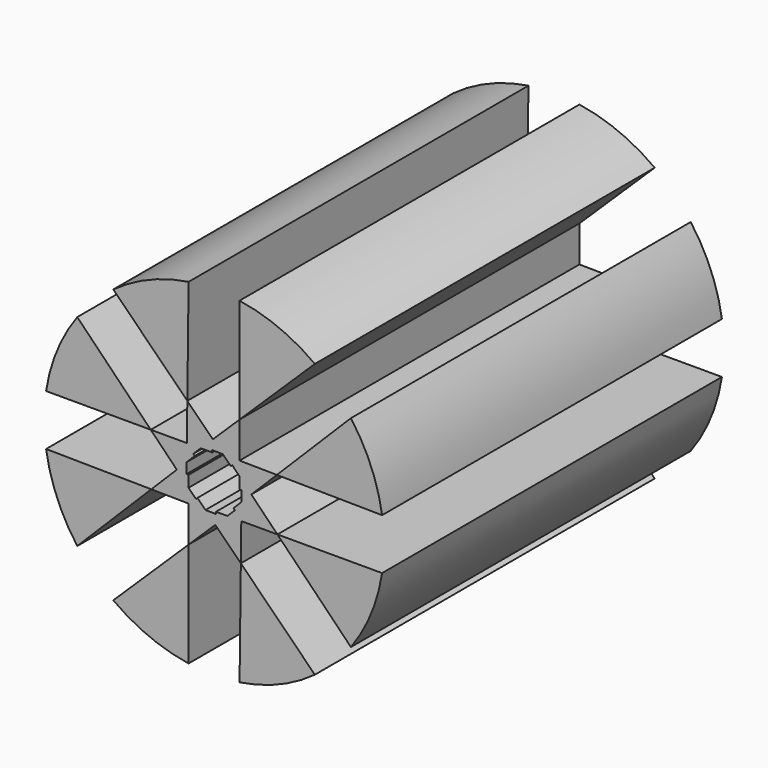
from build123d import *

# Parameters (mm, degrees)
F1_DEPTH = 25


with BuildPart() as f1:
    # F0 (on Front) → F1 (new body)
    with BuildSketch(Plane.XZ):
        Polygon((-1.2930655526, -11.2845433465), (-1.413538867, -11.2845433465), (-1.406060062, -10.6638031963), (-1.9858366428, -11.2435797771), (-1.2930655526, -11.9532477417), align=None)
        Polygon((-1.9858366428, -11.2435797771), (-1.406060062, -10.6638031963), (-1.3941121675, -9.6721290305), (-3.5198718555, -9.6721290305), align=None)
        Polygon((-1.3941121675, -9.6721290305), (-1.406060062, -10.6638031963), (-0.9332146495, -10.1909577839), (-1.0184021471, -10.1057702863), (-0.5741842638, -9.6721290305), align=None)
        Polygon((-1.2930655526, -12.7731756454), (-1.2930655526, -11.9532477417), (-1.9858366428, -11.2435797771), (-3.4889757333, -12.7467188677), align=None)
        Polygon((-0.8594242968, -12.3974656251), (-1.2930655526, -11.9532477417), (-1.2930655526, -12.7731756454), (-0.3013913868, -12.7851235399), (-0.7742367992, -12.3122781275), align=None)
        Polygon((-1.3676553897, -7.4762188498), (-1.3941121675, -9.6721290305), (-0.5741842638, -9.6721290305), (0.1354837008, -8.9793579403), align=None)
        Polygon((-0.3013913868, -12.7851235399), (-1.2930655526, -12.7731756454), (-1.2930655526, -14.8989353334), (0.2783851941, -13.3649001207), align=None)
        Polygon((0.1354837008, -8.9793579403), (-0.5741842638, -9.6721290305), (0.0945201314, -9.6721290305), (0.0945201314, -9.551655716), (0.7152602816, -9.5591345211), align=None)
        Polygon((0.3193487635, -12.792602345), (-0.3013913868, -12.7851235399), (0.2783851941, -13.3649001207), (0.9880531586, -12.6721290305), (0.3193487635, -12.6721290305), align=None)
        Polygon((1.7069344474, -7.4453227276), (0.1354837008, -8.9793579403), (0.7152602816, -9.5591345211), (1.7069344474, -9.5710824156), align=None)
        Polygon((0.9880531586, -12.6721290305), (0.2783851941, -13.3649001207), (1.7815242846, -14.8680392112), (1.8079810624, -12.6721290305), align=None)
        Polygon((1.7069344474, -9.5710824156), (0.7152602816, -9.5591345211), (1.188105694, -10.0319799335), (1.2732931916, -9.9467924359), (1.7069344474, -10.3910103193), align=None)
        Polygon((1.432271042, -12.2384877747), (0.9880531586, -12.6721290305), (1.8079810624, -12.6721290305), (1.8199289568, -11.6804548647), (1.3470835444, -12.1533002771), align=None)
        Polygon((3.9028446281, -9.5975391933), (1.7069344474, -9.5710824156), (1.7069344474, -10.3910103193), (2.3997055376, -11.1006782839), align=None)
        Polygon((1.8199289568, -11.6804548647), (1.8079810624, -12.6721290305), (3.9337407503, -12.6721290305), (2.3997055376, -11.1006782839), align=None)
        Polygon((2.3997055376, -11.1006782839), (1.7069344474, -10.3910103193), (1.7069344474, -11.0597147144), (1.8274077619, -11.0597147144), (1.8199289568, -11.6804548647), align=None)
    extrude(amount=F1_DEPTH)


with BuildPart() as f1b:
    # F0 (on Front) → F1, piece 2 (new body)
    with BuildSketch(Plane.XZ):
        with BuildLine():
            Line((-5.7234711079, -3.1204031317), (-1.3676553897, -7.4762188498))
            Line((-1.3676553897, -7.4762188498), (-1.2930655526, -1.2852690639))
            ThreePointArc((-1.2930655526, -1.2852690639), (-3.6198998762, -1.9333337054), (-5.7234711079, -3.1204031317))
        make_face()
    extrude(amount=F1_DEPTH)


with BuildPart() as f1c:
    # F0 (on Front) → F1, piece 3 (new body)
    with BuildSketch(Plane.XZ):
        with BuildLine():
            Line((1.7069344474, -1.2852690639), (1.7069344474, -7.4453227276))
            Line((1.7069344474, -7.4453227276), (6.1373400027, -3.1204031317))
            ThreePointArc((6.1373400027, -3.1204031317), (4.0337687711, -1.9333337054), (1.7069344474, -1.2852690639))
        make_face()
    extrude(amount=F1_DEPTH)


with BuildPart() as f1d:
    # F0 (on Front) → F1, piece 4 (new body)
    with BuildSketch(Plane.XZ):
        with BuildLine():
            Line((8.2586603463, -5.2417234752), (3.9028446281, -9.5975391933))
            Line((3.9028446281, -9.5975391933), (10.0937944141, -9.6721290305))
            ThreePointArc((10.0937944141, -9.6721290305), (9.4457297725, -7.3452947068), (8.2586603463, -5.2417234752))
        make_face()
    extrude(amount=F1_DEPTH)


with BuildPart() as f1e:
    # F0 (on Front) → F1, piece 5 (new body)
    with BuildSketch(Plane.XZ):
        with BuildLine():
            Line((10.0937944141, -12.6721290305), (3.9337407503, -12.6721290305))
            Line((3.9337407503, -12.6721290305), (8.2586603463, -17.1025345858))
            ThreePointArc((8.2586603463, -17.1025345858), (9.4457297725, -14.9989633541), (10.0937944141, -12.6721290305))
        make_face()
    extrude(amount=F1_DEPTH)


with BuildPart() as f1f:
    # F0 (on Front) → F1, piece 6 (new body)
    with BuildSketch(Plane.XZ):
        with BuildLine():
            Line((6.1373400027, -19.2238549293), (1.7815242846, -14.8680392112))
            Line((1.7815242846, -14.8680392112), (1.7069344474, -21.0589889971))
            ThreePointArc((1.7069344474, -21.0589889971), (4.0337687711, -20.4109243556), (6.1373400027, -19.2238549293))
        make_face()
    extrude(amount=F1_DEPTH)


with BuildPart() as f1g:
    # F0 (on Front) → F1, piece 7 (new body)
    with BuildSketch(Plane.XZ):
        with BuildLine():
            Line((-1.2930655526, -21.0589889971), (-1.2930655526, -14.8989353334))
            Line((-1.2930655526, -14.8989353334), (-5.7234711079, -19.2238549293))
            ThreePointArc((-5.7234711079, -19.2238549293), (-3.6198998762, -20.4109243556), (-1.2930655526, -21.0589889971))
        make_face()
    extrude(amount=F1_DEPTH)


with BuildPart() as f1h:
    # F0 (on Front) → F1, piece 8 (new body)
    with BuildSketch(Plane.XZ):
        with BuildLine():
            Line((-7.8447914514, -17.1025345858), (-3.4889757333, -12.7467188677))
            Line((-3.4889757333, -12.7467188677), (-9.6799255192, -12.6721290305))
            ThreePointArc((-9.6799255192, -12.6721290305), (-9.0318608777, -14.9989633541), (-7.8447914514, -17.1025345858))
        make_face()
    extrude(amount=F1_DEPTH)


with BuildPart() as f1i:
    # F0 (on Front) → F1, piece 9 (new body)
    with BuildSketch(Plane.XZ):
        with BuildLine():
            Line((-9.6799255192, -9.6721290305), (-3.5198718555, -9.6721290305))
            Line((-3.5198718555, -9.6721290305), (-7.8447914514, -5.2417234752))
            ThreePointArc((-7.8447914514, -5.2417234752), (-9.0318608777, -7.3452947068), (-9.6799255192, -9.6721290305))
        make_face()
    extrude(amount=F1_DEPTH)


solid = Compound([f1.part, f1b.part, f1c.part, f1d.part, f1e.part, f1f.part, f1g.part, f1h.part, f1i.part])
